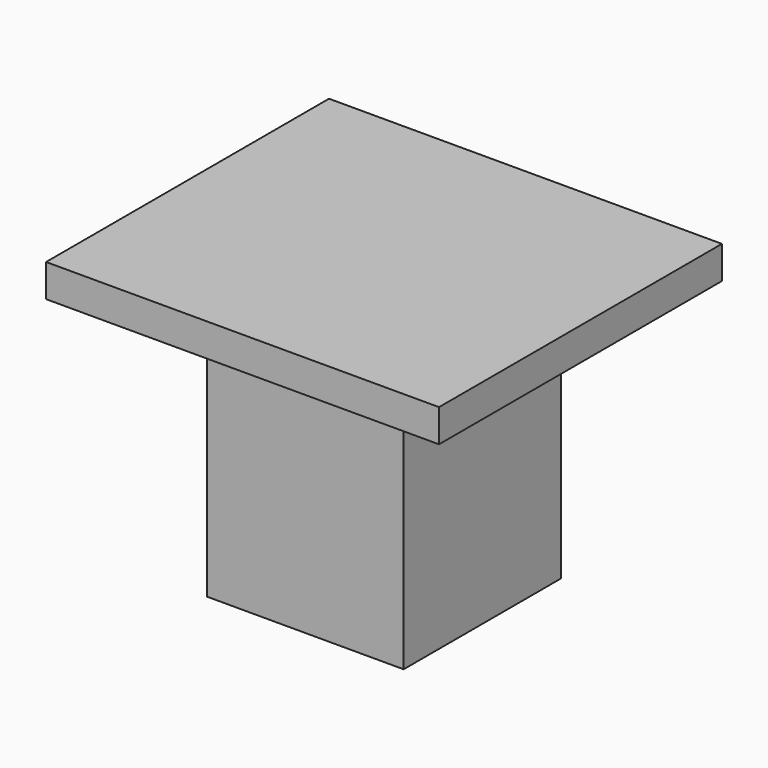
from build123d import *

# Parameters (mm, degrees)
F0_W     = 152.4
F0_H     = 12.7
F1_DEPTH = 137.16
F2_W     = 76.2
F2_H     = 76.2
F3_DEPTH = 101.6
F4_W     = 44.45
F4_H     = 44.45
F5_DEPTH = 101.6


with BuildPart() as f1:
    # F0 (on Front) → F1 (new body)
    with BuildSketch(Plane.XZ):
        with Locations((76.2, 6.35)):
            Rectangle(F0_W, F0_H)
    extrude(amount=F1_DEPTH)

    # F2 (on face) → F3 (join)
    with BuildSketch(Plane(origin=(0, 0, 0), x_dir=(1, 0, 0), z_dir=(0, 0, -1))):
        with Locations((76.2, 68.58)):
            Rectangle(F2_W, F2_H)
    extrude(amount=F3_DEPTH)

    # F4 (on face) → F5 (cut)
    with BuildSketch(Plane(origin=(0, 0, -101.6), x_dir=(1, 0, 0), z_dir=(0, 0, -1))):
        with Locations((76.2, 68.58)):
            Rectangle(F4_W, F4_H)
    extrude(amount=-F5_DEPTH, mode=Mode.SUBTRACT)


solid = f1.part
